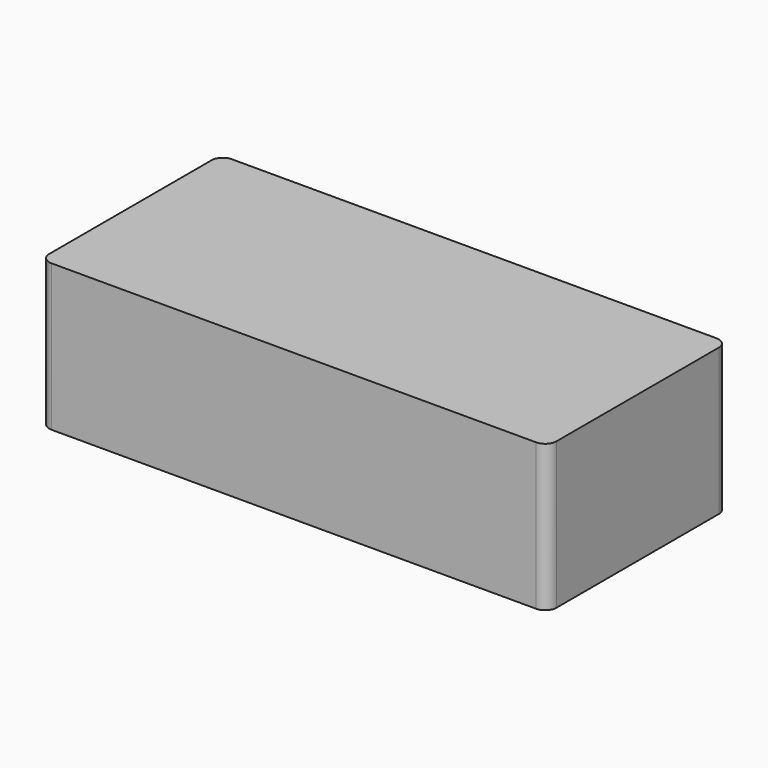
from build123d import *

# Parameters (mm, degrees)
F0_W     = 1800
F0_H     = 800
F1_DEPTH = 520
F2_T     = -60
F3_R     = 50
F4_R     = 40


with BuildPart() as f1:
    # F0 (on Top) → F1 (new body)
    with BuildSketch(Plane.XY):
        Rectangle(F0_W, F0_H)
    extrude(amount=F1_DEPTH)

    # F2
    f2_openings = [f1.faces().sort_by_distance(p)[0] for p in [
        (0, 0, 0),
    ]]
    offset(amount=F2_T, openings=f2_openings)

    # F3
    f3_edges = [f1.edges().sort_by_distance(p)[0] for p in [
        (0, -340, 460),
        (840, 0, 460),
        (0, 340, 460),
        (-840, 0, 460),
    ]]
    fillet(f3_edges, radius=F3_R)

    # F4
    f4_edges = [f1.edges().sort_by_distance(p)[0] for p in [
        (900, 400, 260),
        (900, -400, 260),
        (-900, -400, 260),
        (-900, 400, 260),
    ]]
    fillet(f4_edges, radius=F4_R)


solid = f1.part
